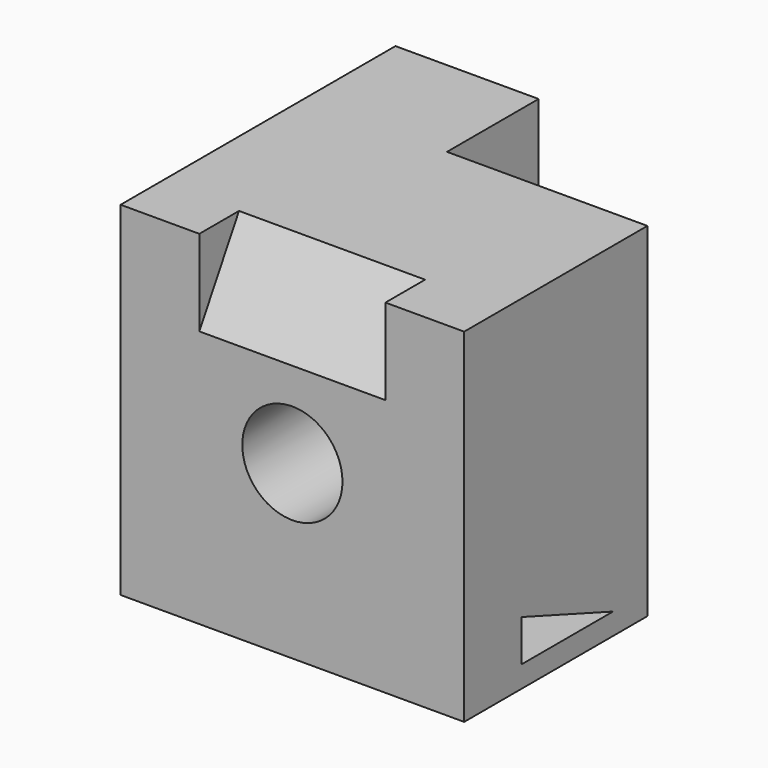
from build123d import *

# Parameters (mm, degrees)
F0_W     = 76.2
F0_H     = 76.2
F1_DEPTH = 38.1
F2_R     = 11.1125
F3_DEPTH = 38.101
F6_DEPTH = 20.6375
F4_W     = 44.45
F4_H     = 25.4
F7_DEPTH = 76.201
F9_DEPTH = 76.201


with BuildPart() as f1:
    # F0 (on Front) → F1 (new body, symmetric)
    with BuildSketch(Plane.XZ):
        Rectangle(F0_W, F0_H)
    extrude(amount=F1_DEPTH, both=True)

    # F2 (on Front) → F3 (cut, through all)
    with BuildSketch(Plane.XZ):
        Circle(F2_R)
    extrude(amount=F3_DEPTH, mode=Mode.SUBTRACT)

    # F5 (on Right) → F6 (cut, symmetric)
    with BuildSketch(Plane.YZ):
        Polygon((-38.1, 19.05), (-27.101477, 38.1), (-38.1, 38.1), align=None)
    extrude(amount=F6_DEPTH, both=True, mode=Mode.SUBTRACT)

    # F4 (on face) → F7 (cut, through all)
    with BuildSketch(Plane.XY.offset(38.1)):
        with Locations((15.875, 25.4)):
            Rectangle(F4_W, F4_H)
    extrude(amount=-F7_DEPTH, mode=Mode.SUBTRACT)

    # F8 (on face) → F9 (cut, through all)
    with BuildSketch(Plane(origin=(-38.1, 0, 0), x_dir=(0, -1, 0), z_dir=(-1, 0, 0))):
        Polygon((22.225, -24.079956), (-3.175, -33.3248), (22.225, -33.3248), align=None)
    extrude(amount=-F9_DEPTH, mode=Mode.SUBTRACT)


solid = f1.part
